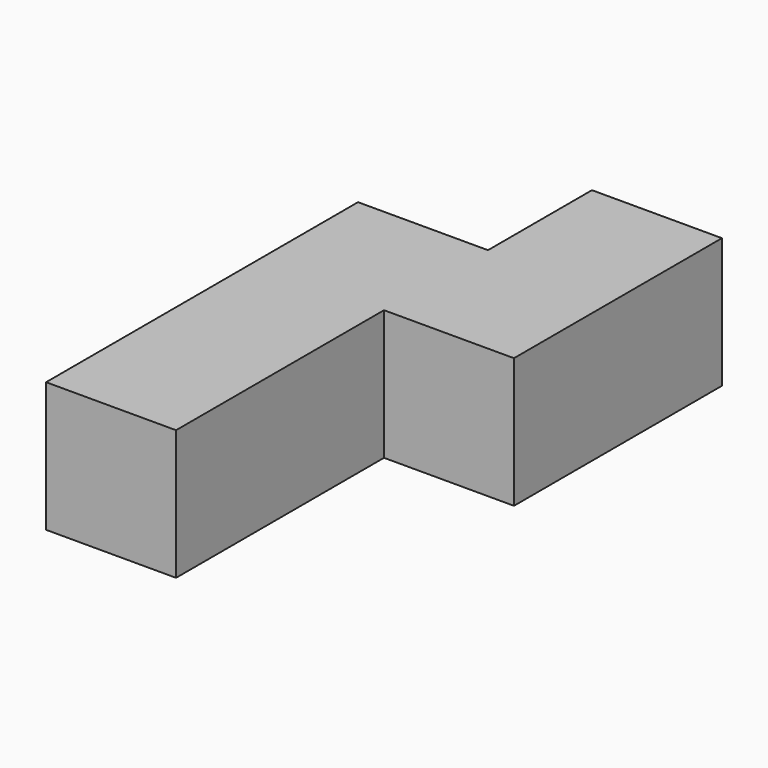
from build123d import *

# Parameters (mm, degrees)
PAD_DEPTH = 10


with BuildPart() as part:
    # Sketch → Pad (new body)
    with BuildSketch(Plane.XY):
        Polygon((17.3173, 37.65692), (27.3173, 37.65692), (27.3173, 47.65692), (37.3173, 47.65692), (37.3173, 27.65692), (27.3173, 27.65692), (27.3173, 7.65692), (17.3173, 7.65692), align=None)
    extrude(amount=PAD_DEPTH)


solid = part.part
